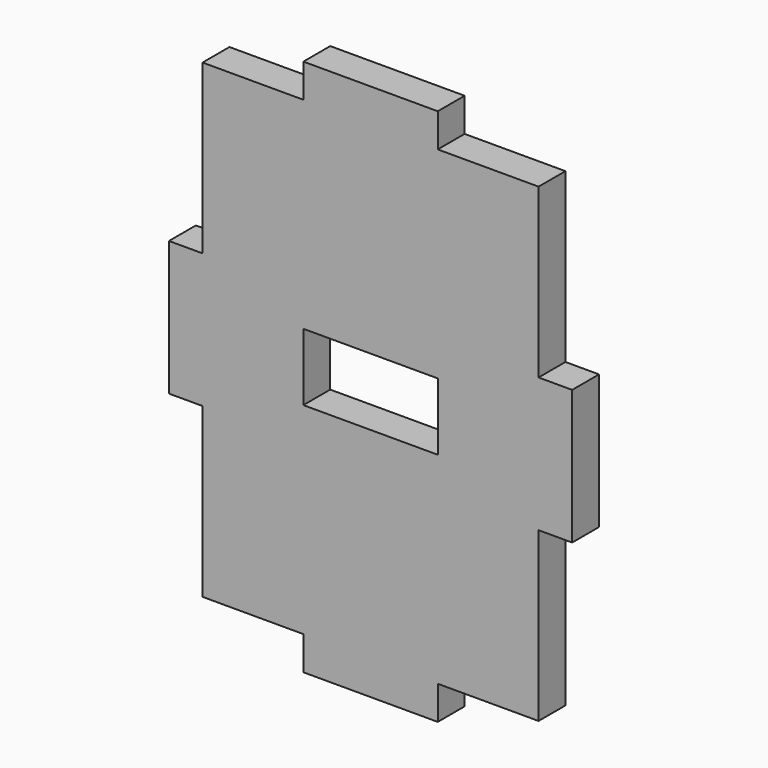
from build123d import *

# Parameters (mm, degrees)
F1_DEPTH = 5
F2_W     = 20
F2_H     = 10
F3_DEPTH = 25


with BuildPart() as f1:
    # F0 (on Front) → F1 (new body)
    with BuildSketch(Plane.XZ):
        Polygon((0, 25), (0, 0), (15, 0), (15, -5), (35, -5), (35, 0), (50, 0), (50, 25), (55, 25), (55, 45), (50, 45), (50, 70), (35, 70), (35, 75), (15, 75), (15, 70), (0, 70), (0, 45), (-5, 45), (-5, 25), align=None)
    extrude(amount=F1_DEPTH)

    # F2 (on face) → F3 (cut)
    with BuildSketch(Plane.XZ.offset(5)):
        with Locations((25, 35)):
            Rectangle(F2_W, F2_H)
    extrude(amount=-F3_DEPTH, mode=Mode.SUBTRACT)


solid = f1.part
